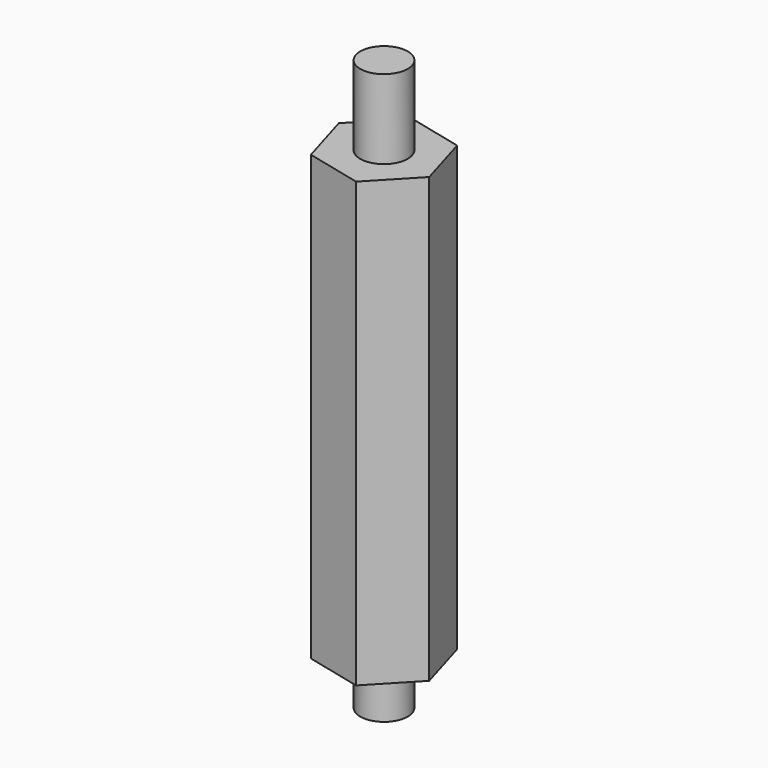
from build123d import *

# Parameters (mm, degrees)
F1_DEPTH = 28
F2_R     = 1.5
F3_DEPTH = 5
F4_R     = 1.5
F5_DEPTH = 3


with BuildPart() as f1:
    # F0 (on Top) → F1 (new body)
    with BuildSketch(Plane.XY):
        Polygon((-1.028917, 3.488743), (-3.535799, 0.853303), (-2.506882, -2.63544), (1.028917, -3.488743), (3.535799, -0.853303), (2.506882, 2.63544), align=None)
    extrude(amount=F1_DEPTH)

    # F2 (on face) → F3 (join)
    with BuildSketch(Plane.XY.offset(28)):
        Circle(F2_R)
    extrude(amount=F3_DEPTH)

    # F4 (on face) → F5 (join)
    with BuildSketch(Plane(origin=(0, 0, 0), x_dir=(1, 0, 0), z_dir=(0, 0, -1))):
        Circle(F4_R)
    extrude(amount=F5_DEPTH)


solid = f1.part
